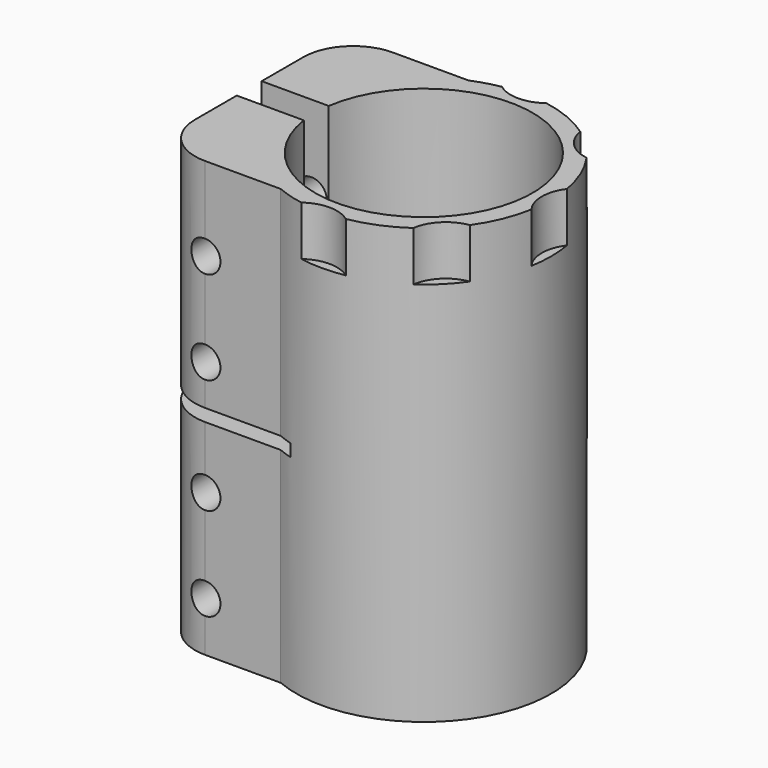
from build123d import *

# Parameters (mm, degrees)
F1_DEPTH       = 35
F3_D           = 5
F3_START       = 1.7550021
F3_CBORE_D     = 10
F3_CBORE_DEPTH = 8
F5_W           = 22.4
F5_H           = 2
F6_DEPTH       = 25
F7_R           = 6
F8_DEPTH       = 8


with BuildPart() as f1:
    # F0 (on Top) → F1 (new body, symmetric)
    with BuildSketch(Plane.XY):
        with BuildLine():
            ThreePointArc((-17.3192642082, 2.5086026559), (17.5, 0), (-17.3192642082, -2.5086026559))
            Line((-17.3192642082, -2.5086026559), (-28.1192642082, -2.5086026559))
            Line((-28.1192642082, -2.5086026559), (-28.1192642082, -10.9086026559))
            ThreePointArc((-28.1192642082, -10.9086026559), (-25.7761184577, -16.5654569054), (-20.1192642082, -18.9086026559))
            Line((-20.1192642082, -18.9086026559), (-7.9192642082, -18.9086026559))
            ThreePointArc((-7.9192642082, -18.9086026559), (20.5, 0), (-7.9192642082, 18.9086026559))
            Line((-7.9192642082, 18.9086026559), (-20.1192642082, 18.9086026559))
            ThreePointArc((-20.1192642082, 18.9086026559), (-25.7761184577, 16.5654569054), (-28.1192642082, 10.9086026559))
            Line((-28.1192642082, 10.9086026559), (-28.1192642082, 2.5086026559))
            Line((-28.1192642082, 2.5086026559), (-17.3192642082, 2.5086026559))
        make_face()
    extrude(amount=F1_DEPTH, both=True)

    # F3 (through all)
    # its depths count from where the whole tool has entered the part; down to there all is cleared
    with Locations(Plane(origin=(0, 18.9086026559, 0), x_dir=(-1, 0, 0), z_dir=(0, 1, 0)).offset(-F3_START)):
        with Locations((20.1192642082, 21.5039052665), (20.1192642082, 6.5039052665), (20.1192642082, -26.9960947335), (20.1192642082, -11.9960947335)):
            CounterBoreHole(F3_D / 2, F3_CBORE_D / 2, F3_CBORE_DEPTH)

    # F5 (on Front) → F6 (cut, symmetric)
    with BuildSketch(Plane.XZ):
        with Locations((-16.9192642082, -1)):
            Rectangle(F5_W, F5_H)
    extrude(amount=F6_DEPTH, both=True, mode=Mode.SUBTRACT)

    # F7 (on face) → F8 (cut)
    with BuildSketch(Plane.XY.offset(35)):
        with Locations((0, -25)):
            Circle(F7_R)
        with Locations((17.6776695297, -17.6776695297)):
            Circle(F7_R)
        with Locations((25, 0)):
            Circle(F7_R)
        with Locations((17.6776695297, 17.6776695297)):
            Circle(F7_R)
        with Locations((0, 25)):
            Circle(F7_R)
    extrude(amount=-F8_DEPTH, mode=Mode.SUBTRACT)


solid = f1.part
